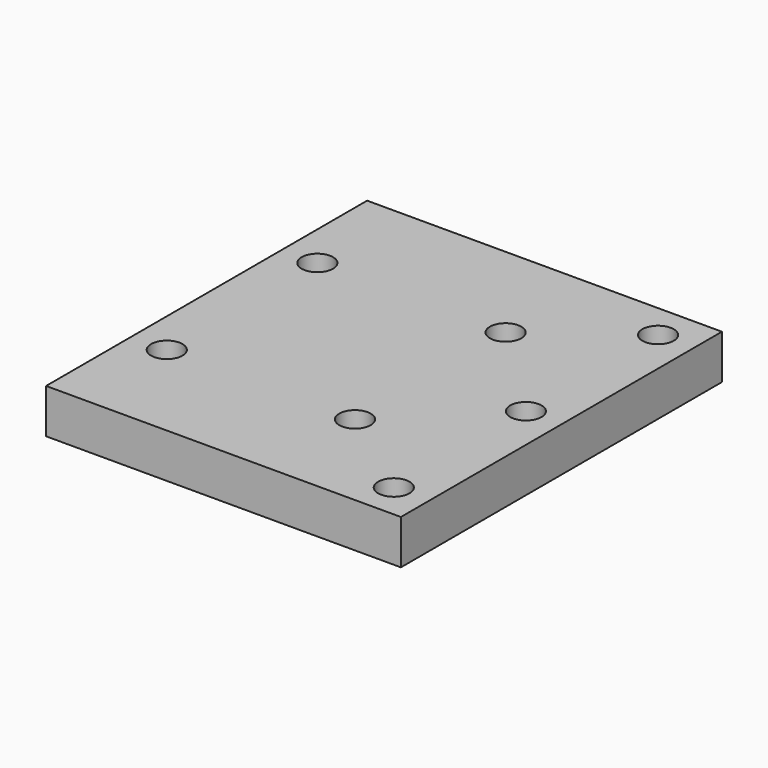
from build123d import *

# Parameters (mm, degrees)
F0_W     = 50.8
F0_H     = 57.4548
F1_DEPTH = 6.35
F2_D     = 4.4958
F3_D     = 4.4958
F4_D     = 4.4958
F5_D     = 4.4958
F6_D     = 4.4958
F7_D     = 4.4958
F8_D     = 4.4958


with BuildPart() as f1:
    # F0 (on Top) → F1 (new body)
    with BuildSketch(Plane.XY):
        Rectangle(F0_W, F0_H)
    extrude(amount=F1_DEPTH)

    # F2 (through all)
    with Locations(Plane(origin=(0, 0, 0), x_dir=(1, 0, 0), z_dir=(0, 0, -1))):
        with Locations((-20.32, 13.4747)):
            Hole(F2_D / 2)

    # F3 (through all)
    with Locations(Plane(origin=(0, 0, 0), x_dir=(1, 0, 0), z_dir=(0, 0, -1))):
        with Locations((-20.32, -13.4747)):
            Hole(F3_D / 2)

    # F4 (through all)
    with Locations(Plane(origin=(0, 0, 0), x_dir=(1, 0, 0), z_dir=(0, 0, -1))):
        with Locations((6.6294, -13.4747)):
            Hole(F4_D / 2)

    # F5 (through all)
    with Locations(Plane(origin=(0, 0, 0), x_dir=(1, 0, 0), z_dir=(0, 0, -1))):
        with Locations((6.6294, 13.4747)):
            Hole(F5_D / 2)

    # F6 (through all)
    with Locations(Plane(origin=(0, 0, 0), x_dir=(1, 0, 0), z_dir=(0, 0, -1))):
        with Locations((20.32, 23.6474)):
            Hole(F6_D / 2)

    # F7 (through all)
    with Locations(Plane(origin=(0, 0, 0), x_dir=(1, 0, 0), z_dir=(0, 0, -1))):
        with Locations((20.32, 0)):
            Hole(F7_D / 2)

    # F8 (through all)
    with Locations(Plane(origin=(0, 0, 0), x_dir=(1, 0, 0), z_dir=(0, 0, -1))):
        with Locations((20.32, -23.6474)):
            Hole(F8_D / 2)


solid = f1.part
